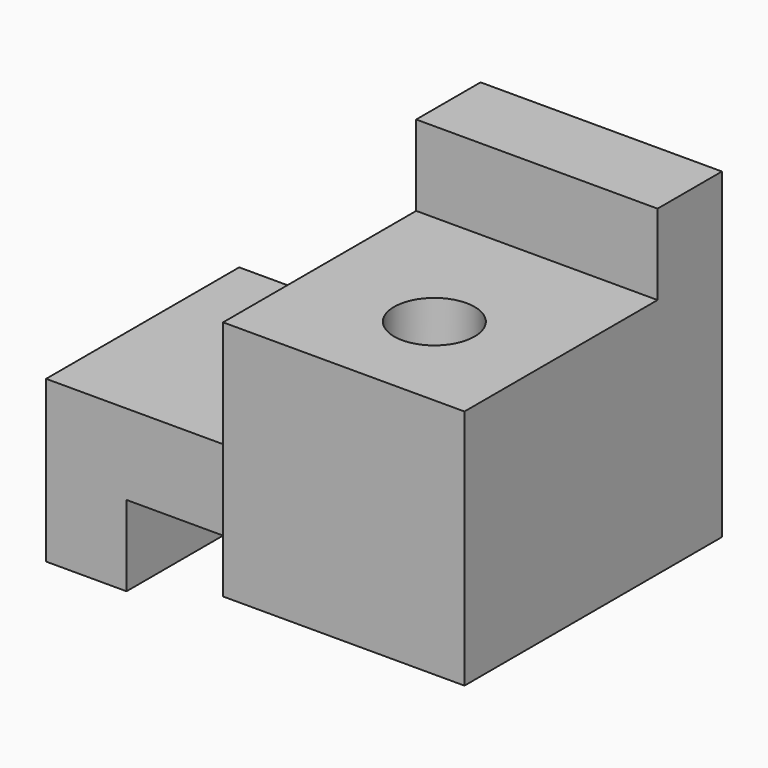
from build123d import *

# Parameters (mm, degrees)
F0_W     = 19.05
F0_H     = 6.35
F1_DEPTH = 25.4
F2_W     = 19.05
F2_H     = 6.35
F3_DEPTH = 12.701
F4_W     = 19.05
F4_H     = 6.35
F5_DEPTH = 38.101
F6_R     = 3.175
F7_DEPTH = 12.7


with BuildPart() as f1:
    # F0 (on Front) → F1 (new body)
    with BuildSketch(Plane.XZ):
        Polygon((0, 12.7), (0, 0), (6.35, 0), (6.35, 6.35), (19.05, 6.35), (19.05, 12.7), align=None)
        Polygon((19.05, 25.4), (19.05, 12.7), (19.05, 6.35), (38.1, 6.35), (38.1, 12.7), (38.1, 25.4), align=None)
        with Locations((28.575, 28.575)):
            Rectangle(F0_W, F0_H)
    extrude(amount=F1_DEPTH)

    # F2 (on face) → F3 (cut, through all)
    with BuildSketch(Plane.XY.offset(12.7)):
        with Locations((9.525, -22.225)):
            Rectangle(F2_W, F2_H)
    extrude(amount=-F3_DEPTH, mode=Mode.SUBTRACT)

    # F4 (on face) → F5 (cut, through all)
    with BuildSketch(Plane.YZ.offset(38.1)):
        with Locations((-15.875, 28.575)):
            Rectangle(F4_W, F4_H)
    extrude(amount=-F5_DEPTH, mode=Mode.SUBTRACT)

    # F6 (on face) → F7 (cut, symmetric)
    with BuildSketch(Plane.XY.offset(12.7)):
        with Locations((29.162522, -17.198412)):
            Circle(F6_R)
        with Locations((12.71187, -10.361776)):
            Circle(F6_R)
    extrude(amount=F7_DEPTH, both=True, mode=Mode.SUBTRACT)


solid = f1.part
